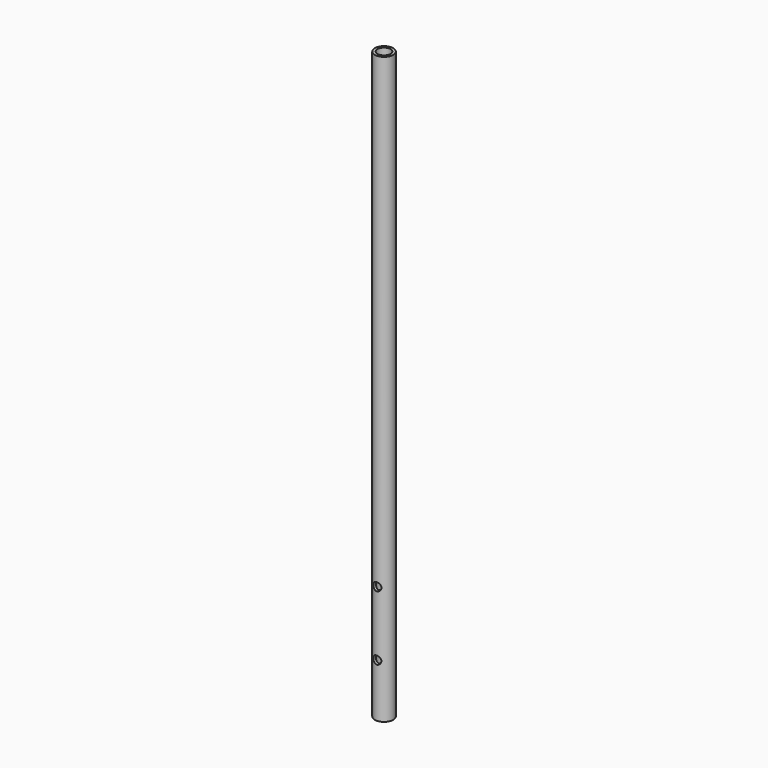
from build123d import *

# Parameters (mm, degrees)
F0_R     = 17.581987
F1_DEPTH = 1120
F2_D     = 25
F3_R     = 7.699886
F3_R_2   = 7.778907
F4_DEPTH = 100
F5_DEPTH = 25


with BuildPart() as f1:
    # F0 (on Top) → F1 (new body)
    with BuildSketch(Plane.XY):
        Circle(F0_R)
    extrude(amount=F1_DEPTH)

    # F2 (through all)
    with Locations(Plane(origin=(0, 0, 0), x_dir=(1, 0, 0), z_dir=(0, 0, -1))):
        with Locations((0, 0)):
            Hole(F2_D / 2)

    # F3 (on Front) → F4 (cut)
    with BuildSketch(Plane.XZ):
        with Locations((0, 102.239177)):
            Circle(F3_R)
        with Locations((0, 225.81467)):
            Circle(F3_R_2)
    extrude(amount=-F4_DEPTH, mode=Mode.SUBTRACT)

    # F3 (on Front) → F5 (cut)
    with BuildSketch(Plane.XZ):
        with Locations((0, 102.239177)):
            Circle(F3_R)
        with Locations((0, 225.81467)):
            Circle(F3_R_2)
    extrude(amount=F5_DEPTH, mode=Mode.SUBTRACT)


solid = f1.part
